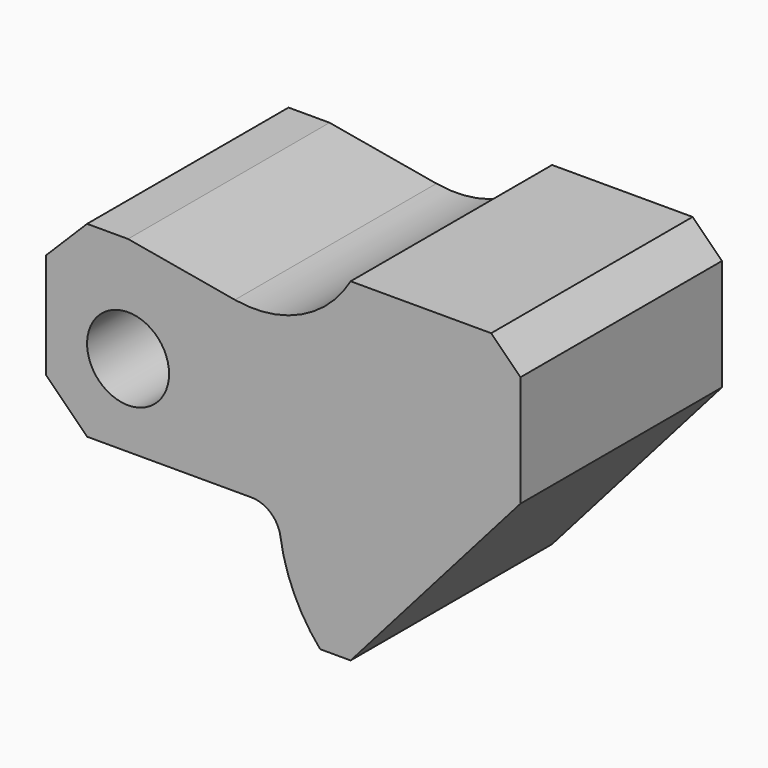
from build123d import *

# Parameters (mm, degrees)
F0_R     = 7
F1_DEPTH = 43


with BuildPart() as f1:
    # F0 (on Front) → F1 (new body)
    with BuildSketch(Plane.XZ):
        with BuildLine():
            Line((-14, 11), (-14, -7))
            Line((-14, -7), (-7, -14))
            Line((-7, -14), (0, -14))
            Line((0, -14), (21.066626, -14))
            ThreePointArc((21.066626, -14), (24.331862, -15.213414), (26.012265, -18.264706))
            ThreePointArc((26.012265, -18.264706), (28.349095, -26.115672), (32.788067, -33))
            Line((32.788067, -33), (38, -33))
            Line((38, -33), (67, 0))
            Line((67, 0), (67, 19))
            Line((67, 19), (62, 24))
            Line((62, 24), (38, 24))
            ThreePointArc((38, 24), (29.574973, 16.276069), (18.243085, 14.783252))
            Line((18.243085, 14.783252), (0, 18))
            Line((0, 18), (-7, 18))
            Line((-7, 18), (-14, 11))
        make_face()
        Circle(F0_R, mode=Mode.SUBTRACT)
    extrude(amount=F1_DEPTH)


solid = f1.part
